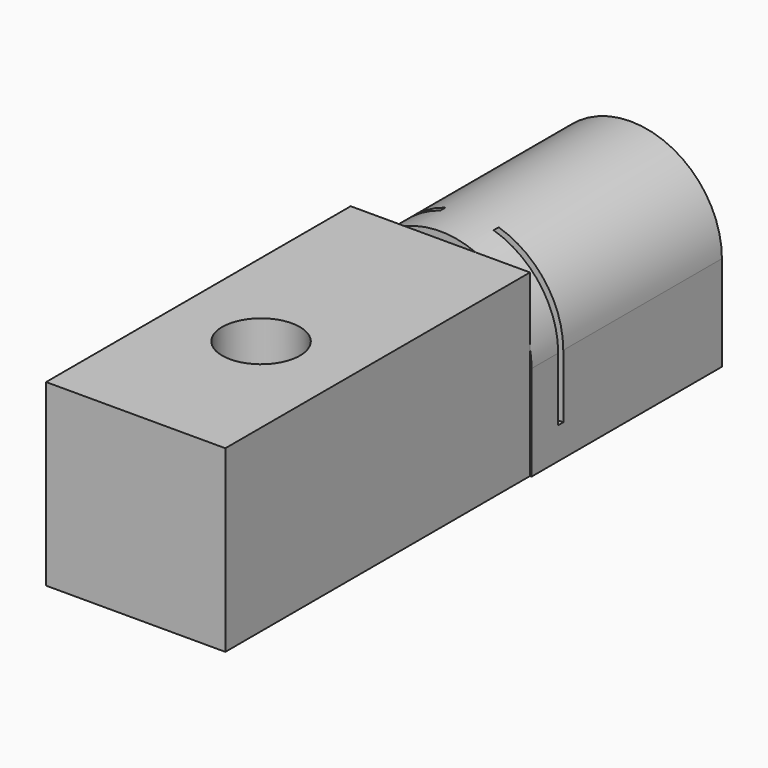
from build123d import *

# Parameters (mm, degrees)
F0_W      = 11.5
F0_H      = 6
F1_DEPTH  = 15
F2_W      = 11.3
F2_H      = 11.3
F3_DEPTH  = 24
F5_W      = 12.6701932168
F5_H      = 0.4
F6_DEPTH  = 5.5
F7_W      = 9.9
F7_H      = 0.3
F8_DEPTH  = 6
F9_D      = 4.9
F10_DEPTH = 4


with BuildPart() as f1:
    # F0 (on Front) → F1 (new body)
    with BuildSketch(Plane.XZ):
        with BuildLine():
            ThreePointArc((11.5, 6), (5.75, 11.75), (0, 6))
            Line((0, 6), (11.5, 6))
        make_face()
        with Locations((5.75, 3)):
            Rectangle(F0_W, F0_H)
    extrude(amount=F1_DEPTH)

    # F2 (on face) → F3 (join)
    with BuildSketch(Plane.XZ.offset(15)):
        with Locations((5.75, 5.65)):
            Rectangle(F2_W, F2_H)
    extrude(amount=F3_DEPTH)

    # F5 (on 3pt) → F6 (cut)
    with BuildSketch(Plane(origin=(0, 0, 6), x_dir=(1, 0, 0), z_dir=(0, 0, -1))):
        with Locations((6.4887672779, 12.7)):
            Rectangle(F5_W, F5_H)
    extrude(amount=-F6_DEPTH, mode=Mode.SUBTRACT)

    # F7 (on face) → F8 (cut, through all)
    with BuildSketch(Plane(origin=(0, 0, 0), x_dir=(1, 0, 0), z_dir=(0, 0, -1))):
        with Locations((5.75, 12.7)):
            Rectangle(F7_W, F7_H)
    extrude(amount=-F8_DEPTH, mode=Mode.SUBTRACT)

    # F9 (through all)
    with Locations(Plane(origin=(0, 0, 0), x_dir=(1, 0, 0), z_dir=(0, 0, -1))):
        with Locations((5.65, 29)):
            Hole(F9_D / 2)

    # F5 (on 3pt) → F10 (cut)
    with BuildSketch(Plane(origin=(0, 0, 6), x_dir=(1, 0, 0), z_dir=(0, 0, -1))):
        with Locations((6.4887672779, 12.7)):
            Rectangle(F5_W, F5_H)
    extrude(amount=F10_DEPTH, mode=Mode.SUBTRACT)


solid = f1.part
